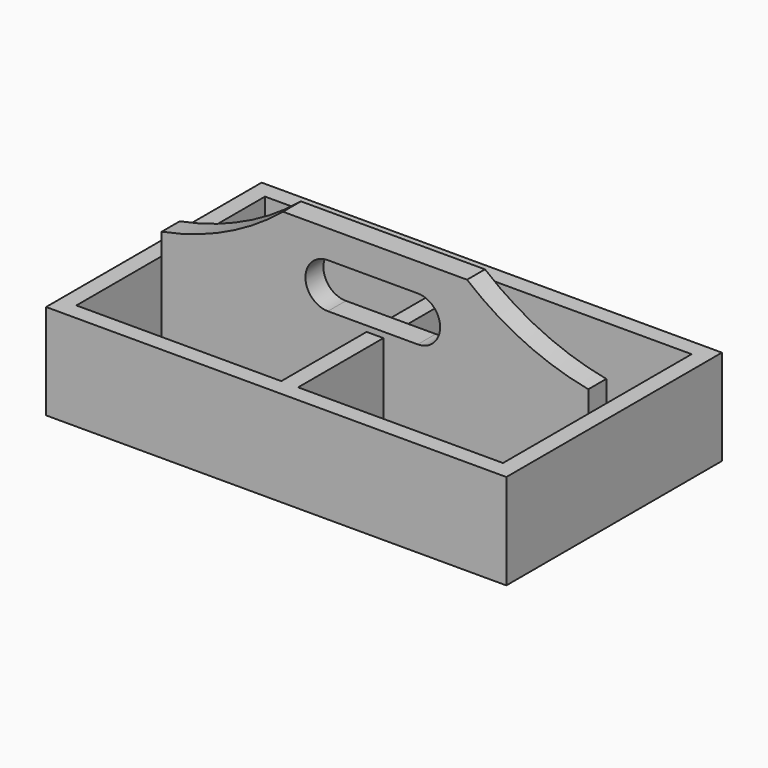
from build123d import *

# Parameters (mm, degrees)
F0_W      = 260.35
F0_H      = 9.525
F1_DEPTH  = 76.2
F2_W      = 260.35
F2_H      = 152.4
F2_W_2    = 241.3
F2_H_2    = 133.35
F3_DEPTH  = 44.45
F5_DEPTH  = 44.45
F7_DEPTH  = 88.9
F9_DEPTH  = 12.7
F11_DEPTH = 223.52


with BuildPart() as f1:
    # F0 (on Front) → F1 (new body, symmetric)
    with BuildSketch(Plane.XZ):
        with Locations((0, 4.7625)):
            Rectangle(F0_W, F0_H)
    extrude(amount=F1_DEPTH, both=True)

    # F2 (on face) → F3 (join)
    with BuildSketch(Plane.XY.offset(9.525)):
        Rectangle(F2_W, F2_H)
        Rectangle(F2_W_2, F2_H_2, mode=Mode.SUBTRACT)
    extrude(amount=F3_DEPTH)

    # F4 (on face) → F5 (join)
    with BuildSketch(Plane.XY.offset(9.525)):
        Polygon((-4.7625, -66.675), (0, -66.675), (4.7625, -66.675), (4.7625, 66.675), (0, 66.675), (-4.7625, 66.675), align=None)
    extrude(amount=F5_DEPTH)

    # F6 (on face) → F7 (join)
    with BuildSketch(Plane.XY.offset(9.525)):
        Polygon((-120.65, 6.35), (-120.65, 0), (-120.65, -6.35), (120.65, -6.35), (120.65, 6.35), align=None)
    extrude(amount=F7_DEPTH)

    # F8 (on face) → F9 (cut)
    with BuildSketch(Plane.XZ.offset(6.35)):
        with BuildLine():
            ThreePointArc((24.1451865613, 57.15), (36.8451865613, 69.85), (24.1451865613, 82.55))
            Line((24.1451865613, 82.55), (-26.6548134387, 82.55))
            ThreePointArc((-26.6548134387, 82.55), (-39.3548134387, 69.85), (-26.6548134387, 57.15))
            Line((-26.6548134387, 57.15), (24.1451865613, 57.15))
        make_face()
    extrude(amount=-F9_DEPTH, mode=Mode.SUBTRACT)

    # F10 (on face) → F11 (cut)
    with BuildSketch(Plane.XZ.offset(76.2)):
        with BuildLine():
            ThreePointArc((0, 247.2596246621), (-267.4707294697, 311.9378914894), (-149.1386400133, 63.5))
            ThreePointArc((-149.1386400133, 63.5), (-53.1007485209, 97.5679105219), (0, 184.5403753379))
            ThreePointArc((0, 184.5403753379), (-3.26136, 215.9), (0, 247.2596246621))
        make_face()
        with BuildLine():
            ThreePointArc((0, 247.2596246621), (-3.26136, 215.9), (0, 184.5403753379))
            ThreePointArc((0, 184.5403753379), (2.4438272183, 200.1356214204), (3.26136, 215.9))
            ThreePointArc((3.26136, 215.9), (2.4438272183, 231.6643785796), (0, 247.2596246621))
        make_face()
        with BuildLine():
            ThreePointArc((0, 184.5403753379), (53.1007485157, 97.5679105261), (149.13864, 63.5))
            ThreePointArc((149.13864, 63.5), (256.9017134528, 108.1369265472), (301.53864, 215.9))
            ThreePointArc((301.53864, 215.9), (164.9030185796, 367.4824672183), (0, 247.2596246621))
            ThreePointArc((0, 247.2596246621), (2.4438272183, 231.6643785796), (3.26136, 215.9))
            ThreePointArc((3.26136, 215.9), (2.4438272183, 200.1356214204), (0, 184.5403753379))
        make_face()
    extrude(amount=-F11_DEPTH, mode=Mode.SUBTRACT)


solid = f1.part
